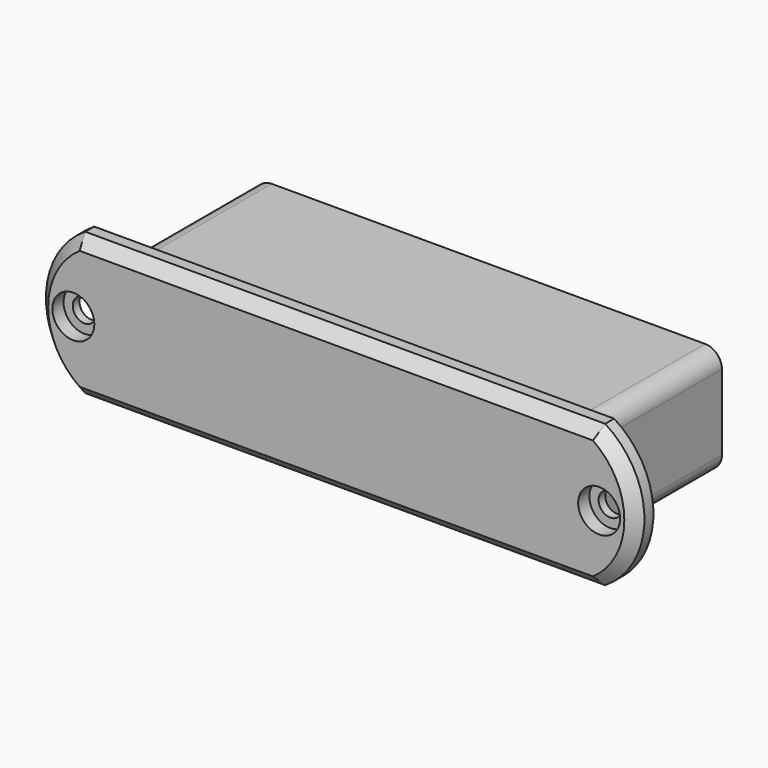
from build123d import *

# Parameters (mm, degrees)
F0_R     = 2.1
F1_DEPTH = 4
F2_SIZE  = 2
F3_R     = 3.75
F4_DEPTH = 2.5
F5_W     = 83.5
F5_H     = 19.5
F6_DEPTH = 30
F7_R     = 3


with BuildPart() as f1:
    # F0 (on Front) → F1 (new body)
    with BuildSketch(Plane.XZ):
        with BuildLine():
            Line((0, 12.7), (-46.481854, 12.7))
            ThreePointArc((-46.481854, 12.7), (-53.5, 0), (-46.481854, -12.7))
            Line((-46.481854, -12.7), (0, -12.7))
            Line((0, -12.7), (46.481854, -12.7))
            ThreePointArc((46.481854, -12.7), (53.5, 0), (46.481854, 12.7))
            Line((46.481854, 12.7), (0, 12.7))
        make_face()
        with Locations((-47, 0)):
            Circle(F0_R, mode=Mode.SUBTRACT)
        with Locations((47, 0)):
            Circle(F0_R, mode=Mode.SUBTRACT)
    extrude(amount=F1_DEPTH)

    # F2
    f2_edges = [f1.edges().sort_by_distance(p)[0] for p in [
        (0, -4, 12.7),
        (53.5, -4, 0),
        (0, -4, -12.7),
        (-53.5, -4, 0),
    ]]
    chamfer(f2_edges, length=F2_SIZE)

    # F3 (on face) → F4 (cut)
    with BuildSketch(Plane.XZ.offset(4)):
        with Locations((-47, 0)):
            Circle(F3_R)
        with Locations((47, 0)):
            Circle(F3_R)
    extrude(amount=-F4_DEPTH, mode=Mode.SUBTRACT)

    # F5 (on face) → F6 (join)
    with BuildSketch(Plane(origin=(0, 0, 0), x_dir=(-1, 0, 0), z_dir=(0, 1, 0))):
        Rectangle(F5_W, F5_H)
    extrude(amount=F6_DEPTH)

    # F7
    f7_edges = [f1.edges().sort_by_distance(p)[0] for p in [
        (41.75, 15, 9.75),
        (-41.75, 15, 9.75),
        (-41.75, 15, -9.75),
        (41.75, 15, -9.75),
    ]]
    fillet(f7_edges, radius=F7_R)


solid = f1.part
